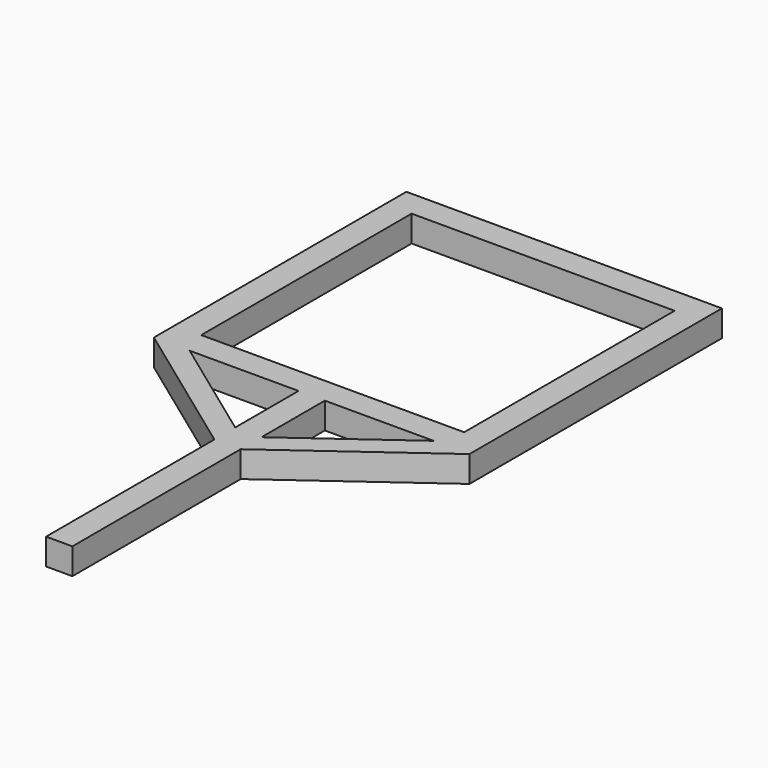
from build123d import *

# Parameters (mm, degrees)
F3_W      = 10
F3_H      = 120
F4_DEPTH  = 10
F7_W      = 120
F7_H      = 10
F8_DEPTH  = 10
F9_W      = 10
F9_H      = 100
F10_DEPTH = 10
F11_W     = 120
F11_H     = 10
F12_DEPTH = 10
F14_DEPTH = 10


with BuildPart() as f4:
    # F3 (on Top) → F4 (new body)
    with BuildSketch(Plane.XY):
        with Locations((0, 60)):
            Rectangle(F3_W, F3_H)
    extrude(amount=F4_DEPTH)

    # F7 (on Top) → F8 (join)
    with BuildSketch(Plane.XY):
        with Locations((0, 125)):
            Rectangle(F7_W, F7_H)
    extrude(amount=F8_DEPTH)

    # F9 (on Top) → F10 (join)
    with BuildSketch(Plane.XY):
        with Locations((-55, 180)):
            Rectangle(F9_W, F9_H)
        with Locations((55, 180)):
            Rectangle(F9_W, F9_H)
    extrude(amount=F10_DEPTH)

    # F11 (on Top) → F12 (join)
    with BuildSketch(Plane.XY):
        with Locations((0, 235)):
            Rectangle(F11_W, F11_H)
    extrude(amount=F12_DEPTH)

    # F13 (on Top) → F14 (join)
    with BuildSketch(Plane.XY):
        Polygon((-5, 80), (-5, 89.891979), (-46.398529, 120), (-60, 120), align=None)
        Polygon((5, 80), (60, 120), (46.398529, 120), (5, 89.891979), align=None)
    extrude(amount=F14_DEPTH)


solid = f4.part
